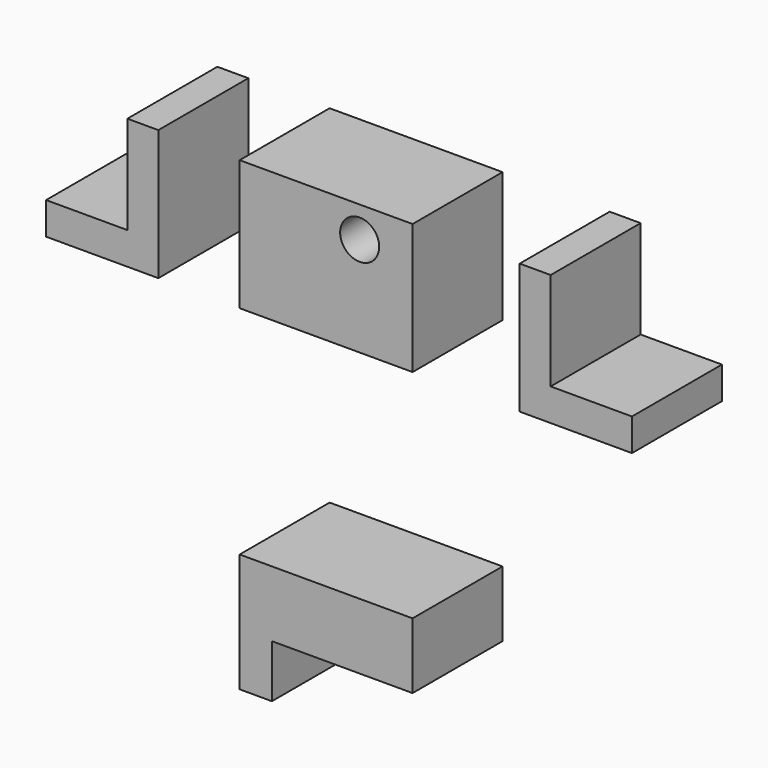
from build123d import *

# Parameters (mm, degrees)
F0_W     = 39.057707
F0_H     = 29.439015
F1_DEPTH = 25.4
F2_R     = 4.410823
F3_DEPTH = 25.4


with BuildPart() as f1:
    # F0 (on Front) → F1 (new body)
    with BuildSketch(Plane.XZ):
        with Locations((-2.914753, 38.766228)):
            Rectangle(F0_W, F0_H)
        Polygon((47.801968, 53.485736), (40.806558, 53.485736), (40.806558, 24.046721), (66.164918, 24.046721), (66.164918, 31.333607), (47.801968, 31.333607), align=None)
        Polygon((-40.806558, 53.485736), (-47.801968, 53.485736), (-47.801968, 31.333607), (-66.164918, 31.333607), (-66.164918, 24.046721), (-40.806558, 24.046721), align=None)
        Polygon((16.6141, -24.921147), (-22.443607, -24.921147), (-22.443607, -51.736884), (-15.156722, -51.736884), (-15.156722, -39.786395), (16.6141, -39.786395), align=None)
    extrude(amount=F1_DEPTH)

    # F2 (on face) → F3 (cut)
    with BuildSketch(Plane.XZ.offset(25.4)):
        with Locations((4.663608, 46.49033)):
            Circle(F2_R)
    extrude(amount=-F3_DEPTH, mode=Mode.SUBTRACT)


solid = f1.part
